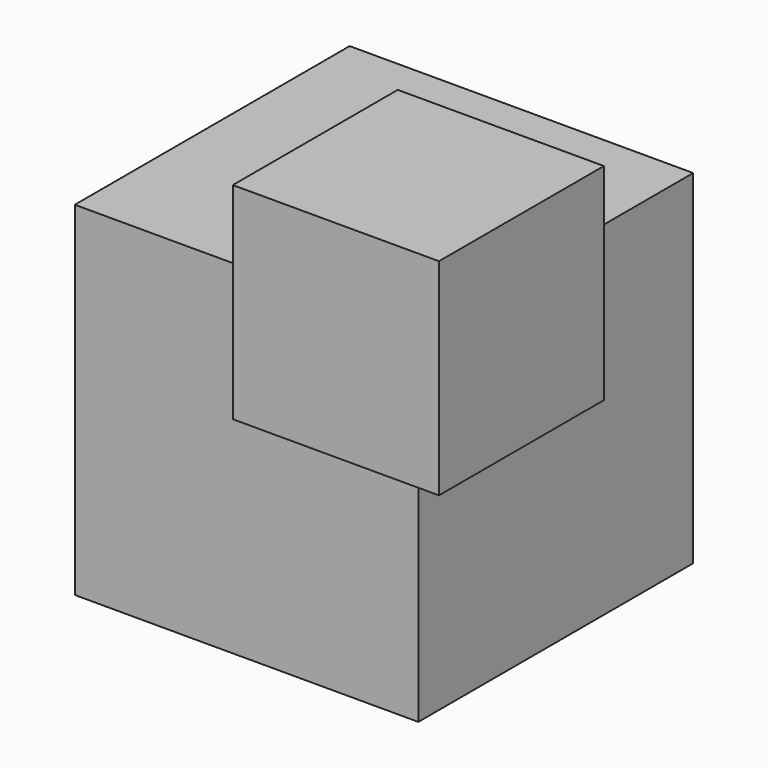
from build123d import *

# Parameters (mm, degrees)
F0_W     = 127
F0_H     = 127
F1_DEPTH = 63.5
F4_DEPTH = 76.2
F5_W     = 38.1
F5_H     = 38.1
F6_DEPTH = 50.8


with BuildPart() as f1:
    # F0 (on Front) → F1 (new body, symmetric)
    with BuildSketch(Plane.XZ):
        Rectangle(F0_W, F0_H)
    extrude(amount=F1_DEPTH, both=True)

    # F3 (on offset) → F4 (join)
    with BuildSketch(Plane.XY.offset(38.1)):
        Polygon((101.6, -25.4), (63.5, -25.4), (63.5, -63.5), (25.4, -63.5), (25.4, -101.6), (101.6, -101.6), align=None)
    extrude(amount=F4_DEPTH)

    # F5 (on face) → F6 (join)
    with BuildSketch(Plane.XY.offset(63.5)):
        with Locations((44.45, -44.45)):
            Rectangle(F5_W, F5_H)
    extrude(amount=F6_DEPTH)


solid = f1.part
